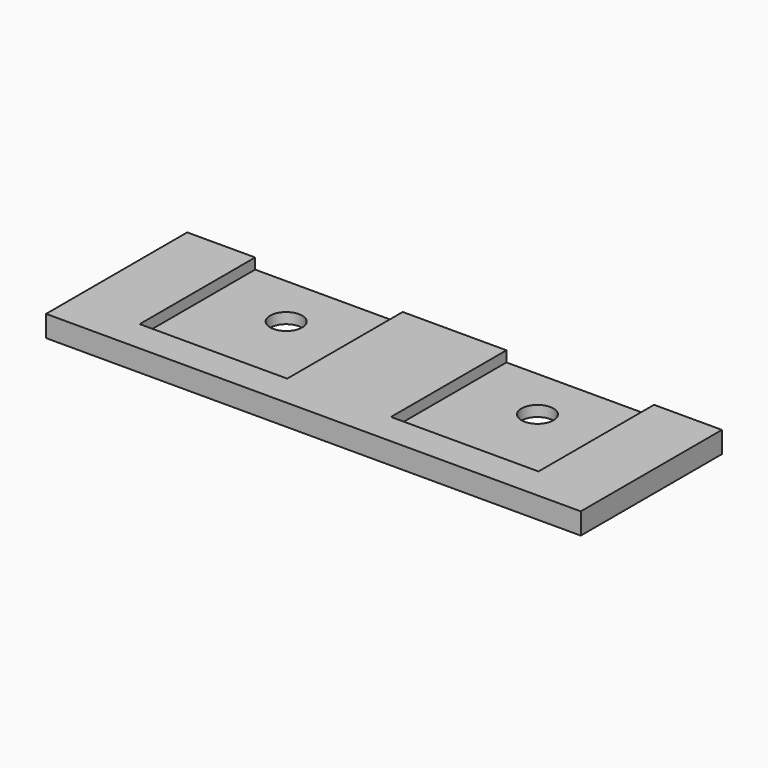
from build123d import *

# Parameters (mm, degrees)
F1_DEPTH = 2
F0_W     = 13.8
F0_H     = 13.5
F0_R     = 1.5
F2_DEPTH = 1


with BuildPart() as f1:
    # F0 (on Top) → F1 (new body)
    with BuildSketch(Plane.XY):
        Polygon((-18.65, -8.5), (-18.65, 5), (-25, 5), (-25, -11.5), (0, -11.5), (25, -11.5), (25, 5), (18.65, 5), (18.65, -8.5), (4.85, -8.5), (4.85, 5), (0, 5), (-4.85, 5), (-4.85, -8.5), align=None)
    extrude(amount=F1_DEPTH)

    # F0 (on Top) → F2 (join)
    with BuildSketch(Plane.XY):
        with Locations((-11.75, -1.75)):
            Rectangle(F0_W, F0_H)
        with Locations((-11.75, 0)):
            Circle(F0_R, mode=Mode.SUBTRACT)
        Polygon((-18.65, -8.5), (-18.65, 5), (-25, 5), (-25, -11.5), (0, -11.5), (25, -11.5), (25, 5), (18.65, 5), (18.65, -8.5), (4.85, -8.5), (4.85, 5), (0, 5), (-4.85, 5), (-4.85, -8.5), align=None)
        with Locations((11.75, -1.75)):
            Rectangle(F0_W, F0_H)
        with Locations((11.75, 0)):
            Circle(F0_R, mode=Mode.SUBTRACT)
    extrude(amount=F2_DEPTH)


solid = f1.part
